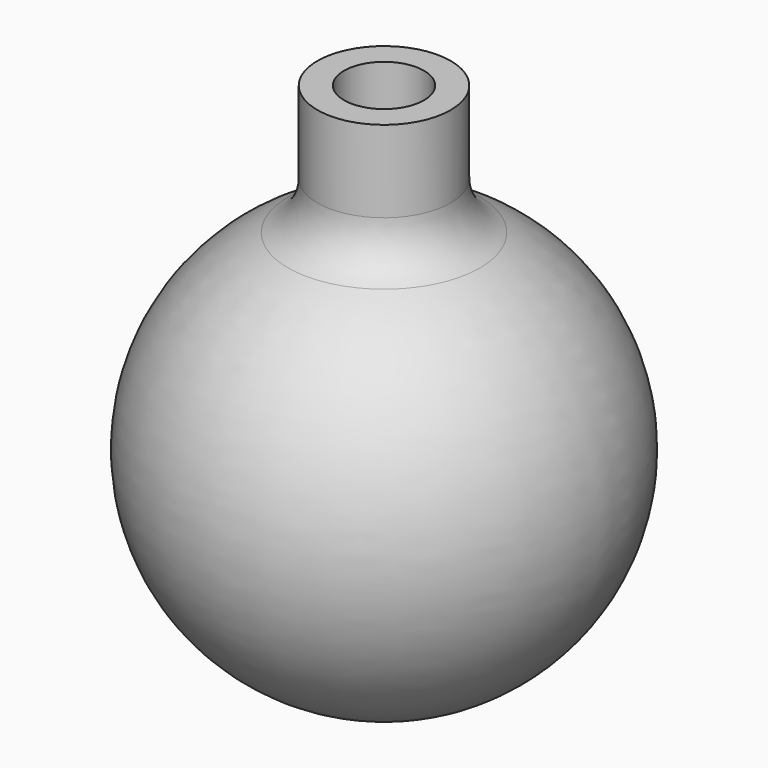
from build123d import *


with BuildPart() as f1:
    # F0 (on Front) → F1 (revolve)
    with BuildSketch(Plane.XZ):
        with BuildLine():
            Line((0.731905, 10.949671), (-0.854325, 10.949671))
            Line((-0.854325, 10.949671), (-0.854325, 5.062525))
            ThreePointArc((-0.854325, 5.062525), (-0.325159, 3.307478), (1.085952, 2.137446))
            ThreePointArc((1.085952, 2.137446), (7.656049, -10.304912), (-3.235575, -19.212829))
            Line((-3.235575, -19.212829), (-3.235575, -20.800329))
            ThreePointArc((-3.235575, -20.800329), (9.120255, -11.036903), (2.478409, 3.241645))
            ThreePointArc((2.478409, 3.241645), (1.203564, 4.412034), (0.731905, 6.077139))
            Line((0.731905, 6.077139), (0.731905, 10.949671))
        make_face()
    revolve(axis=Axis((-3.235575, 0, -10.856288), (0, 0, -1)))


solid = f1.part
